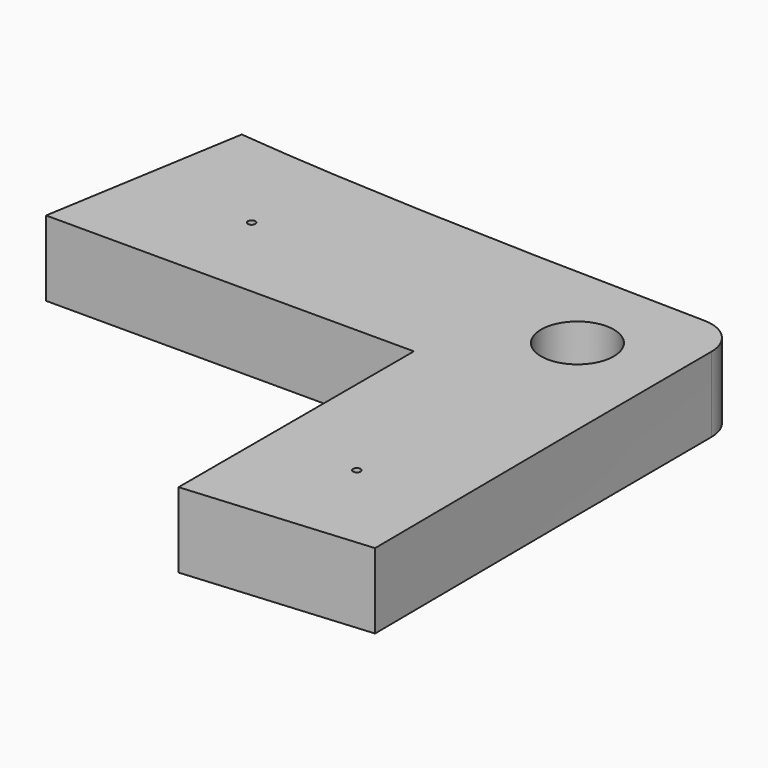
from build123d import *

# Parameters (mm, degrees)
SKETCH052_R     = 1.45
PAD013_DEPTH    = 3
SKETCH057_R     = 0.15
POCKET029_DEPTH = 20
FILLET011_R     = 1.5


with BuildPart() as part:
    # Sketch052 → Pad013 (new body)
    with BuildSketch(Plane.XY):
        with BuildLine():
            add(Edge.make_bspline(
                [(150.875, 88.9625), (142.177266, 89.087472), (135.460331, 89.269548), (130.29585, 89.7876)],
                knots=[0, 0, 0, 0, 1, 1, 1, 1], degree=3))
            Line((130.29585, 89.7876), (128.95, 81.7125))
            Line((128.95, 81.7125), (143.625, 81.7125))
            Line((143.625, 81.7125), (143.625, 69.975))
            Line((143.625, 69.975), (150.975266, 70.587522))
            add(Edge.make_bspline(
                [(150.875, 88.9625), (150.875, 82.6662), (150.975266, 70.587522)],
                knots=[0, 0, 0, 1, 1, 1], degree=2))
        make_face()
        with Locations((147.25, 85.3375)):
            Circle(SKETCH052_R, mode=Mode.SUBTRACT)
    extrude(amount=PAD013_DEPTH)

    # Sketch057 → Pocket029 (cut)
    with BuildSketch(Plane.XY):
        with Locations((134.25, 85.3375)):
            Circle(SKETCH057_R)
        with Locations((147.25, 74.3375)):
            Circle(SKETCH057_R)
    extrude(amount=POCKET029_DEPTH, mode=Mode.SUBTRACT)

    # Fillet011
    fillet011_edges = [part.edges().sort_by_distance(p)[0] for p in [
        (150.875, 88.9625, 1.5),
    ]]
    fillet(fillet011_edges, radius=FILLET011_R)


with BuildPart() as part_1:
    # Body012 placement: moved
    add(part.part.moved(Location((0, 0, -3))))


solid = part_1.part
